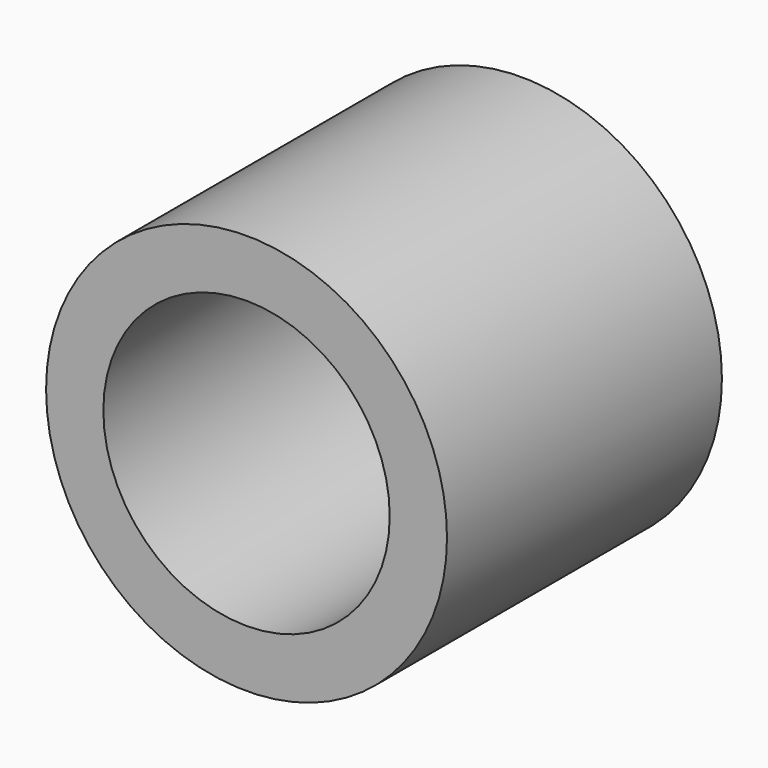
from build123d import *

# Parameters (mm, degrees)
F0_R     = 35
F0_R_2   = 25
F1_DEPTH = 60
F2_DEPTH = 25


with BuildPart() as f1:
    # F0 (on Front) → F1 (new body)
    with BuildSketch(Plane.XZ):
        with Locations((-41.601423, 30.944343)):
            Circle(F0_R)
        with Locations((-41.601423, 30.944343)):
            Circle(F0_R_2, mode=Mode.SUBTRACT)
    extrude(amount=-F1_DEPTH)

    # F0 (on Front) → F2 (join)
    with BuildSketch(Plane.XZ):
        with Locations((-41.601423, 30.944343)):
            Circle(F0_R)
        with Locations((-41.601423, 30.944343)):
            Circle(F0_R_2, mode=Mode.SUBTRACT)
    extrude(amount=-F2_DEPTH)


solid = f1.part
